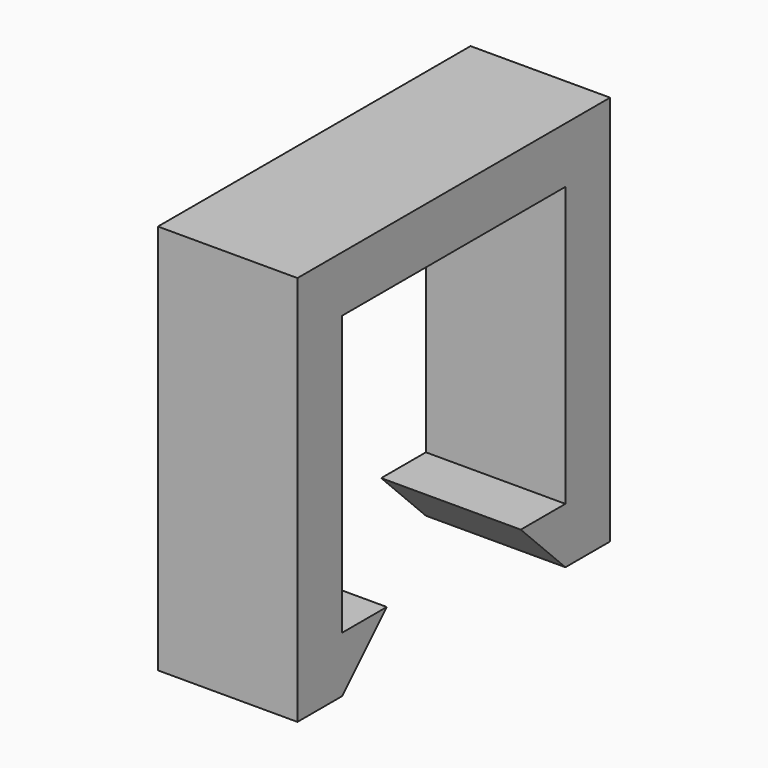
from build123d import *

# Parameters (mm, degrees)
F1_DEPTH = 6.35


with BuildPart() as f1:
    # F0 (on Right) → F1 (new body, symmetric)
    with BuildSketch(Plane.YZ):
        Polygon((5.08, 0), (0, 0), (0, 25.4), (25.4, 25.4), (25.4, 0), (20.32, 0), (25.4, -5.08), (30.48, -5.08), (30.48, 30.48), (-5.08, 30.48), (-5.08, -5.08), (0, -5.08), align=None)
    extrude(amount=F1_DEPTH, both=True)


solid = f1.part
